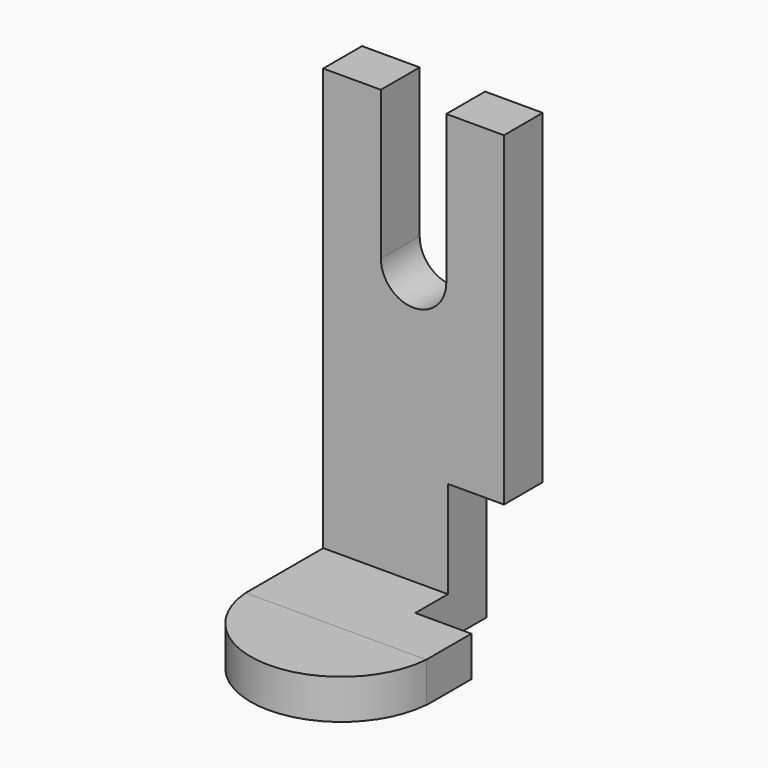
from build123d import *

# Parameters (mm, degrees)
F1_DEPTH = 12.7
F2_W     = 47.326426
F2_H     = 10.501631
F3_DEPTH = 25.4
F5_DEPTH = 10.414
F6_W     = 27.22006
F6_H     = 41.083854
F7_DEPTH = 23.368


with BuildPart() as f1:
    # F0 (on Front) → F1 (new body)
    with BuildSketch(Plane.XZ):
        with BuildLine():
            Line((-8.565213, 60.537182), (-23.663213, 60.537182))
            Line((-23.663213, 60.537182), (-23.663213, -60.537182))
            Line((-23.663213, -60.537182), (23.663213, -60.537182))
            Line((23.663213, -60.537182), (23.663213, 60.537182))
            Line((23.663213, 60.537182), (8.565213, 60.537182))
            Line((8.565213, 60.537182), (8.565213, 21.63079))
            ThreePointArc((8.565213, 21.63079), (0, 13.065577), (-8.565213, 21.63079))
            Line((-8.565213, 21.63079), (-8.565213, 60.537182))
        make_face()
    extrude(amount=F1_DEPTH)

    # F2 (on face) → F3 (join)
    with BuildSketch(Plane.XZ.offset(12.7)):
        with Locations((0, -55.286366)):
            Rectangle(F2_W, F2_H)
    extrude(amount=F3_DEPTH)

    # F4 (on face) → F5 (join)
    with BuildSketch(Plane.XY.offset(-50.035551)):
        with BuildLine():
            Line((23.663213, -38.1), (-23.663213, -38.1))
            ThreePointArc((-23.663213, -38.1), (0, -60.103298), (23.663213, -38.1))
        make_face()
    extrude(amount=-F5_DEPTH)

    # F6 (on face) → F7 (cut)
    with BuildSketch(Plane(origin=(0, 0, 0), x_dir=(-1, 0, 0), z_dir=(0, 1, 0))):
        with Locations((-22.601565, -45.153538)):
            Rectangle(F6_W, F6_H)
    extrude(amount=-F7_DEPTH, mode=Mode.SUBTRACT)


solid = f1.part
